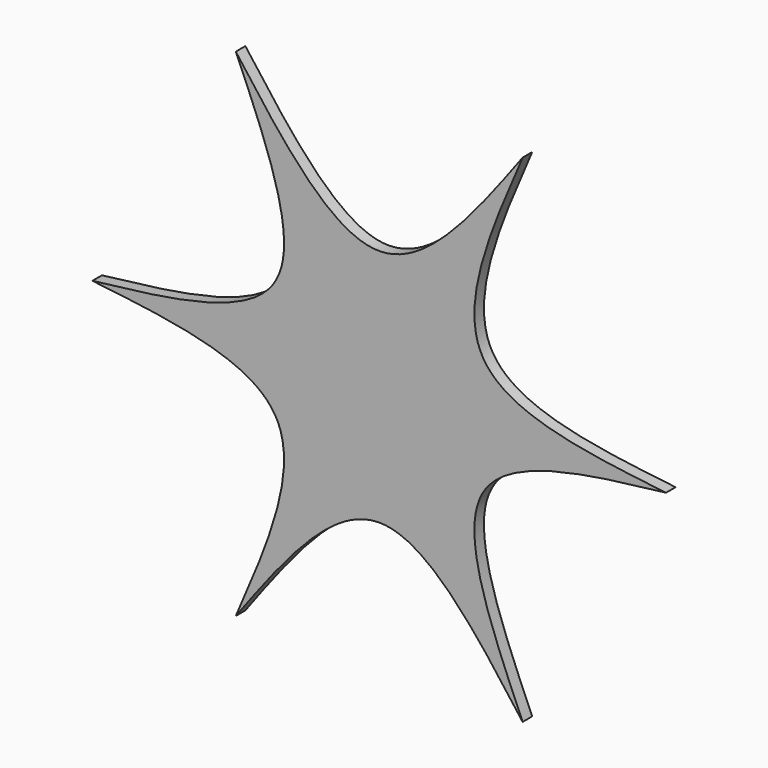
from build123d import *

# Parameters (mm, degrees)
F1_DEPTH = 6.35


with BuildPart() as f1:
    # F0 (on Front) → F1 (new body)
    with BuildSketch(Plane.XZ):
        with BuildLine():
            Line((-152.4, 0), (0, 0))
            Line((0, 0), (-76.2, 131.982272))
            add(Edge.make_bspline(
                [(-152.4, 0), (-110.046307, 4.876477), (-25.33892, 14.629432), (-59.246307, 92.864658), (-76.2, 131.982272)],
                knots=[0, 0, 0, 0, 102.451264, 204.902528, 204.902528, 204.902528, 204.902528], degree=3))
        make_face()
        with BuildLine():
            Line((0, 0), (76.2, 131.982272))
            add(Edge.make_bspline(
                [(-76.2, 131.982272), (-50.8, 97.741136), (0, 29.258864), (50.8, 97.741136), (76.2, 131.982272)],
                knots=[0, 0, 0, 0, 102.451264, 204.902528, 204.902528, 204.902528, 204.902528], degree=3))
            Line((-76.2, 131.982272), (0, 0))
        make_face()
        with BuildLine():
            Line((0, 0), (152.4, 0))
            add(Edge.make_bspline(
                [(76.2, 131.982272), (59.246307, 92.864658), (25.33892, 14.629432), (110.046307, 4.876477), (152.4, 0)],
                knots=[0, 0, 0, 0, 102.451264, 204.902528, 204.902528, 204.902528, 204.902528], degree=3))
            Line((76.2, 131.982272), (0, 0))
        make_face()
        with BuildLine():
            add(Edge.make_bspline(
                [(152.4, 0), (110.046307, -4.876477), (25.33892, -14.629432), (59.246307, -92.864658), (76.2, -131.982272)],
                knots=[0, 0, 0, 0, 102.451264, 204.902528, 204.902528, 204.902528, 204.902528], degree=3))
            Line((152.4, 0), (0, 0))
            Line((0, 0), (76.2, -131.982272))
        make_face()
        with BuildLine():
            add(Edge.make_bspline(
                [(76.2, -131.982272), (50.8, -97.741136), (0, -29.258864), (-50.8, -97.741136), (-76.2, -131.982272)],
                knots=[0, 0, 0, 0, 102.451264, 204.902528, 204.902528, 204.902528, 204.902528], degree=3))
            Line((76.2, -131.982272), (0, 0))
            Line((0, 0), (-76.2, -131.982272))
        make_face()
        with BuildLine():
            Line((-76.2, -131.982272), (0, 0))
            Line((0, 0), (-152.4, 0))
            add(Edge.make_bspline(
                [(-76.2, -131.982272), (-59.246307, -92.864658), (-25.33892, -14.629432), (-110.046307, -4.876477), (-152.4, 0)],
                knots=[0, 0, 0, 0, 102.451264, 204.902528, 204.902528, 204.902528, 204.902528], degree=3))
        make_face()
    extrude(amount=F1_DEPTH)


solid = f1.part
